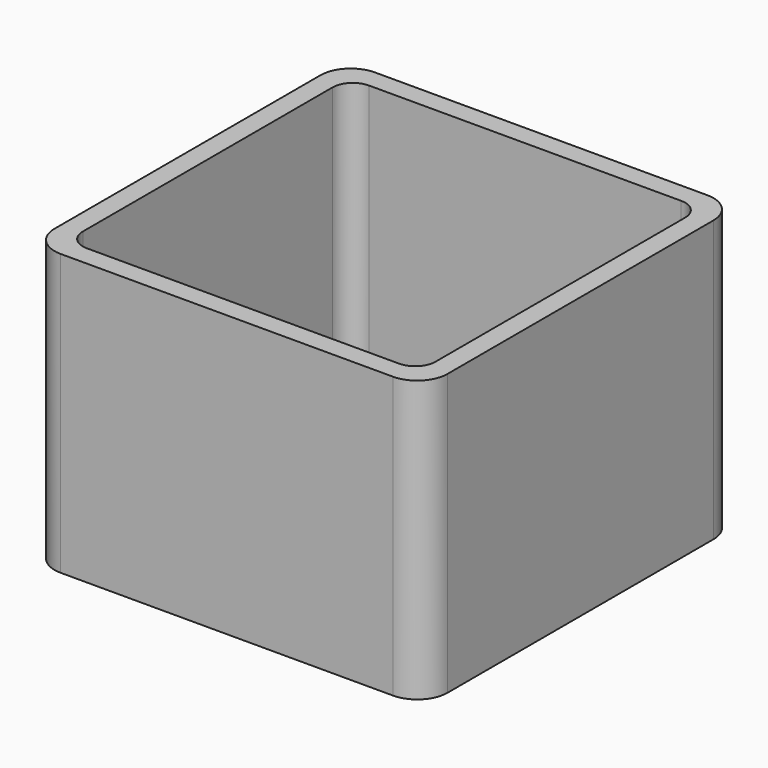
from build123d import *

# Parameters (mm, degrees)
EXTRUDE_DEPTH = 50


with BuildPart() as part:
    # Sketch → Extrude (new body)
    with BuildSketch(Plane.XY):
        with BuildLine():
            Line((-29.6, 35), (29.6, 35))
            ThreePointArc((35, 29.6), (33.418377, 33.418377), (29.6, 35))
            Line((35, 29.6), (35, -29.6))
            ThreePointArc((29.6, -35), (33.418377, -33.418377), (35, -29.6))
            Line((29.6, -35), (-29.6, -35))
            ThreePointArc((-35, -29.6), (-33.418377, -33.418377), (-29.6, -35))
            Line((-35, -29.6), (-35, 29.6))
            ThreePointArc((-29.6, 35), (-33.418377, 33.418377), (-35, 29.6))
        make_face()
        with BuildLine():
            Line((-27.8, 31.4), (27.8, 31.4))
            ThreePointArc((31.4, 27.8), (30.345584, 30.345584), (27.8, 31.4))
            Line((31.4, 27.8), (31.4, -27.8))
            ThreePointArc((27.8, -31.4), (30.345584, -30.345584), (31.4, -27.8))
            Line((27.8, -31.4), (-27.8, -31.4))
            ThreePointArc((-31.4, -27.8), (-30.345584, -30.345584), (-27.8, -31.4))
            Line((-31.4, -27.8), (-31.4, 27.8))
            ThreePointArc((-27.8, 31.4), (-30.345584, 30.345584), (-31.4, 27.8))
        make_face(mode=Mode.SUBTRACT)
    extrude(amount=EXTRUDE_DEPTH)


solid = part.part
